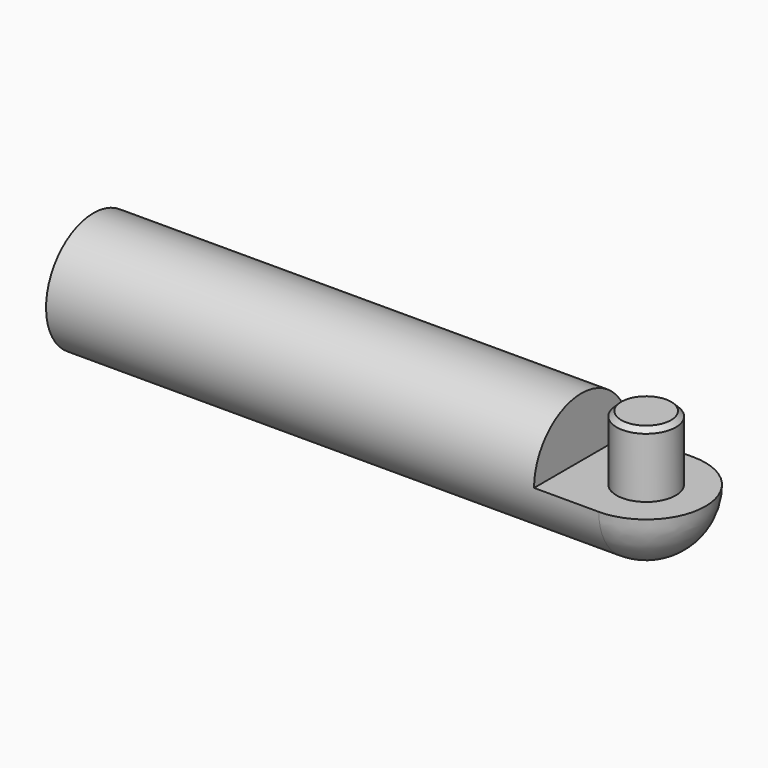
from build123d import *

# Parameters (mm, degrees)
F0_W     = 177.8
F0_H     = 19.05
F2_W     = 20.828
F2_H     = 20.828
F3_DEPTH = 20.828
F6_R     = 9.525
F7_DEPTH = 20.828
F8_SIZE  = 1.524


with BuildPart() as f1:
    # F0 (on Front) → F1 (revolve)
    with BuildSketch(Plane.XZ):
        with Locations((-88.9, 9.525)):
            Rectangle(F0_W, F0_H)
    revolve(axis=Axis((-88.9, 0, 0), (-1, 0, 0)))

    # F2 (on Front) → F3 (cut, symmetric)
    with BuildSketch(Plane.XZ):
        with Locations((-10.414, 10.414)):
            Rectangle(F2_W, F2_H)
    extrude(amount=F3_DEPTH, both=True, mode=Mode.SUBTRACT)

    # F4 (on Front) → F5 (revolve)
    with BuildSketch(Plane.XZ):
        with BuildLine():
            Line((19.05, 0), (0, 0))
            Line((0, 0), (0, -19.05))
            ThreePointArc((0, -19.05), (13.470384, -13.470384), (19.05, 0))
        make_face()
    revolve(axis=Axis((0, 0, -9.525), (0, 0, -1)))

    # F6 (on face) → F7 (join)
    with BuildSketch(Plane.XY):
        Circle(F6_R)
    extrude(amount=F7_DEPTH)

    # F8
    f8_edges = [f1.edges().sort_by_distance(p)[0] for p in [
        (-9.525, 0, 20.828),
    ]]
    chamfer(f8_edges, length=F8_SIZE)


solid = f1.part
